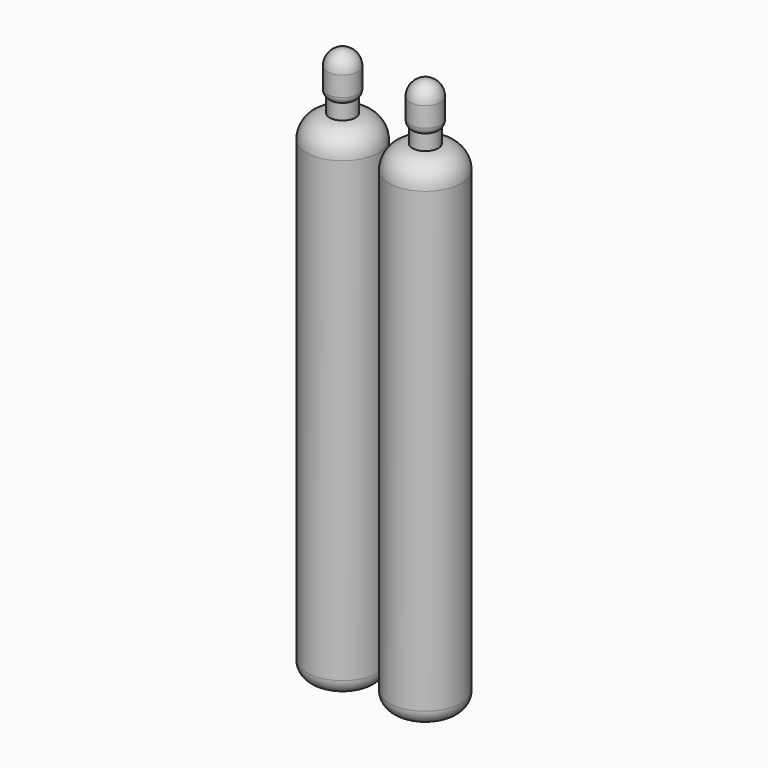
from build123d import *


with BuildPart() as f1:
    # F0 (on Front) → F1 (revolve)
    with BuildSketch(Plane.XZ):
        with BuildLine():
            Line((-50.8, -1219.2), (0, -1219.2))
            Line((0, -1219.2), (0, 139.7))
            ThreePointArc((0, 139.7), (-26.940768, 128.540768), (-38.1, 101.6))
            Line((-38.1, 101.6), (-38.1, 52.856067))
            ThreePointArc((-38.1, 52.856067), (-36.445112, 44.823881), (-31.75, 38.1))
            Line((-31.75, 38.1), (-31.75, 0))
            ThreePointArc((-31.75, 0), (-72.161153, -16.738847), (-88.9, -57.15))
            Line((-88.9, -57.15), (-88.9, -1181.1))
            ThreePointArc((-88.9, -1181.1), (-77.740768, -1208.040768), (-50.8, -1219.2))
        make_face()
    revolve(axis=Axis((0, 0, -596.186563), (0, 0, -1)))


with BuildPart() as f3:
    # F2 (on Front) → F3 (revolve)
    with BuildSketch(Plane.XZ):
        with BuildLine():
            Line((152.4, -1219.2), (203.2, -1219.2))
            Line((203.2, -1219.2), (203.2, 139.7))
            ThreePointArc((203.2, 139.7), (176.259232, 128.540768), (165.1, 101.6))
            Line((165.1, 101.6), (165.1, 52.856067))
            ThreePointArc((165.1, 52.856067), (166.754888, 44.823881), (171.45, 38.1))
            Line((171.45, 38.1), (171.45, 0))
            ThreePointArc((171.45, 0), (131.038847, -16.738847), (114.3, -57.15))
            Line((114.3, -57.15), (114.3, -1181.1))
            ThreePointArc((114.3, -1181.1), (125.459232, -1208.040768), (152.4, -1219.2))
        make_face()
    revolve(axis=Axis((203.2, 0, -596.186563), (0, 0, -1)))


solid = Compound([f1.part, f3.part])
